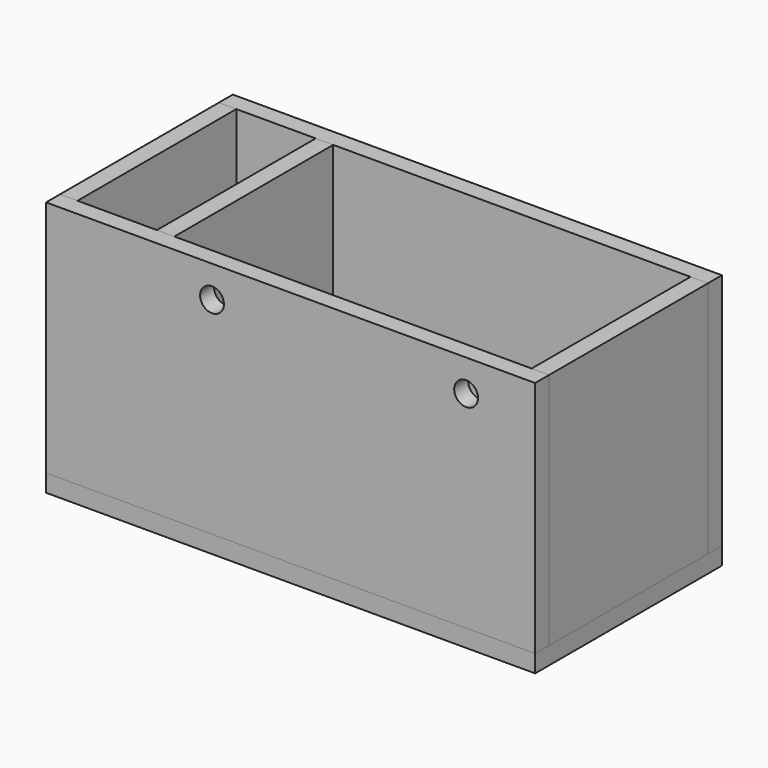
from build123d import *

# Parameters (mm, degrees)
F0_W      = 156.464
F0_H      = 74.676
F1_DEPTH  = 5.588
F2_W      = 156.464
F2_H      = 5.588
F3_DEPTH  = 76.2
F4_W      = 156.464
F4_H      = 5.588
F5_DEPTH  = 76.2
F6_W      = 5.588
F6_H      = 76.2
F7_DEPTH  = 63.5
F8_W      = 5.588
F8_H      = 76.2
F9_DEPTH  = 63.5
F10_W     = 5.588
F10_H     = 76.2
F11_DEPTH = 63.5
F12_R     = 3.81
F13_DEPTH = 5.588


with BuildPart() as f1:
    # F0 (on Top) → F1 (new body)
    with BuildSketch(Plane.XY):
        Rectangle(F0_W, F0_H)
    extrude(amount=F1_DEPTH)


with BuildPart() as f3:
    # F2 (on face) → F3 (new body)
    with BuildSketch(Plane.XY.offset(5.588)):
        with Locations((0, 34.544)):
            Rectangle(F2_W, F2_H)
    extrude(amount=F3_DEPTH)


with BuildPart() as f5:
    # F4 (on face) → F5 (new body)
    with BuildSketch(Plane.XY.offset(5.588)):
        with Locations((0, -34.544)):
            Rectangle(F4_W, F4_H)
    extrude(amount=F5_DEPTH)

    # F12 (on face) → F13 (cut, through all)
    with BuildSketch(Plane.XZ.offset(37.338)):
        with Locations((-25.146, 71.628)):
            Circle(F12_R)
        with Locations((56.134, 71.628)):
            Circle(F12_R)
    extrude(amount=-F13_DEPTH, mode=Mode.SUBTRACT)


with BuildPart() as f7:
    # F6 (on face) → F7 (new body, through all)
    with BuildSketch(Plane.XZ.offset(-31.75)):
        with Locations((-75.438, 43.688)):
            Rectangle(F6_W, F6_H)
    extrude(amount=F7_DEPTH)


with BuildPart() as f9:
    # F8 (on face) → F9 (new body, through all)
    with BuildSketch(Plane.XZ.offset(-31.75)):
        with Locations((75.438, 43.688)):
            Rectangle(F8_W, F8_H)
    extrude(amount=F9_DEPTH)


with BuildPart() as f11:
    # F10 (on face) → F11 (new body, through all)
    with BuildSketch(Plane.XZ.offset(-31.75)):
        with Locations((-44.45, 43.688)):
            Rectangle(F10_W, F10_H)
    extrude(amount=F11_DEPTH)


solid = Compound([f1.part, f3.part, f5.part, f7.part, f9.part, f11.part])
